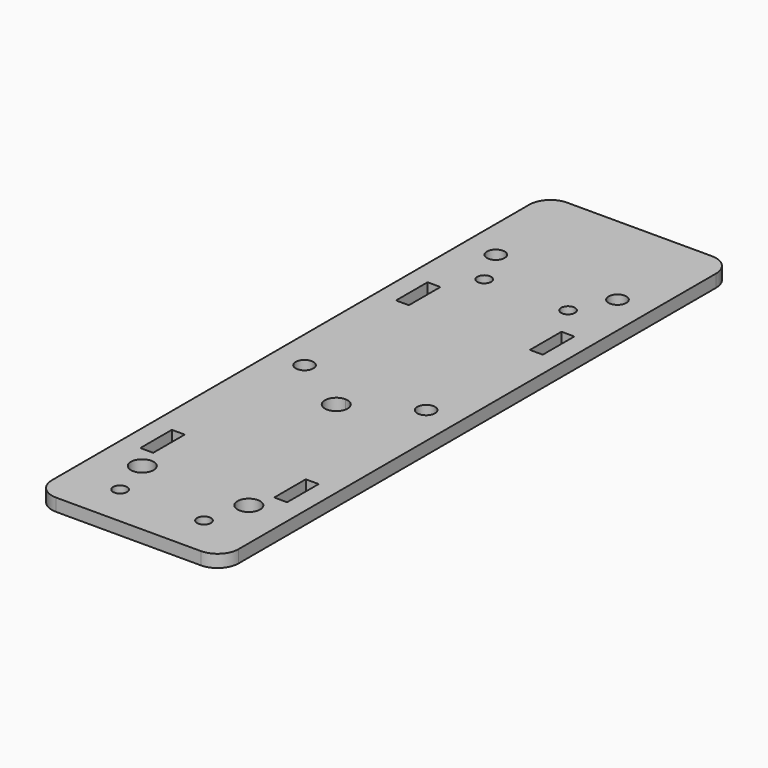
from build123d import *

# Parameters (mm, degrees)
F1_DEPTH = 2.999994
F2_R     = 1.65
F2_R_2   = 2.705
F2_R_3   = 2.11
F2_W     = 3.0734
F2_H     = 9.398
F3_DEPTH = 3.000994
F5_DEPTH = 3.000994


with BuildPart() as f1:
    # F0 (on Top) → F1 (new body)
    with BuildSketch(Plane.XY):
        with BuildLine():
            Line((-17.25041, -77.999971), (17.25041, -77.999971))
            ThreePointArc((17.25041, -77.999971), (20.785937, -76.535508), (22.2504, -72.999981))
            Line((22.2504, -72.999981), (22.2504, 72.999981))
            ThreePointArc((22.2504, 72.999981), (20.785937, 76.535508), (17.25041, 77.999971))
            Line((17.25041, 77.999971), (-17.25041, 77.999971))
            ThreePointArc((-17.25041, 77.999971), (-20.785937, 76.535508), (-22.2504, 72.999981))
            Line((-22.2504, 72.999981), (-22.2504, -72.999981))
            ThreePointArc((-22.2504, -72.999981), (-20.785937, -76.535508), (-17.25041, -77.999971))
        make_face()
    extrude(amount=-F1_DEPTH)

    # F2 (on face) → F3 (cut, through all)
    with BuildSketch(Plane.XY):
        with Locations((-9.99998, -67.999991)):
            Circle(F2_R)
        with Locations((-12.7004, -58.019971)):
            Circle(F2_R_2)
        with Locations((-14.5004, -7.399971)):
            Circle(F2_R_3)
        with Locations((-10.0004, 40.501189)):
            Circle(F2_R)
        with Locations((-14.5004, 49.600029)):
            Circle(F2_R_3)
        with BuildLine():
            ThreePointArc((0, -13.374971), (-2.7054, -16.079971), (0, -18.784971))
            Line((0, -18.784971), (0, -13.374971))
        make_face()
        with BuildLine():
            Line((0, -13.374971), (0, -18.784971))
            ThreePointArc((0, -18.784971), (1.912465, -17.992553), (2.7046, -16.079971))
            ThreePointArc((2.7046, -16.079971), (1.912465, -14.167389), (0, -13.374971))
        make_face()
        with Locations((9.99998, -67.999991)):
            Circle(F2_R)
        with Locations((12.7004, -58.019971)):
            Circle(F2_R_2)
        with Locations((14.5004, -7.399971)):
            Circle(F2_R_3)
        with Locations((10.0004, 40.501189)):
            Circle(F2_R)
        with Locations((14.5004, 49.600029)):
            Circle(F2_R_3)
        with Locations((-15.9637, -47.900971)):
            Rectangle(F2_W, F2_H)
        with Locations((-15.9637, 28.299029)):
            Rectangle(F2_W, F2_H)
        with Locations((15.9637, 28.299029)):
            Rectangle(F2_W, F2_H)
        with Locations((15.9637, -47.900971)):
            Rectangle(F2_W, F2_H)
    extrude(amount=-F3_DEPTH, mode=Mode.SUBTRACT)

    # F4 (on face) → F5 (cut, through all)
    with BuildSketch(Plane.XY):
        with BuildLine():
            ThreePointArc((-22.2504, 69.297931), (-20.785937, 72.833458), (-17.25041, 74.297921))
            Line((-17.25041, 74.297921), (17.25041, 74.297921))
            ThreePointArc((17.25041, 74.297921), (20.785937, 72.833458), (22.2504, 69.297931))
            Line((22.2504, 69.297931), (22.2504, 72.999981))
            ThreePointArc((22.2504, 72.999981), (20.785937, 76.535508), (17.25041, 77.999971))
            Line((17.25041, 77.999971), (-17.25041, 77.999971))
            ThreePointArc((-17.25041, 77.999971), (-20.785937, 76.535508), (-22.2504, 72.999981))
            Line((-22.2504, 72.999981), (-22.2504, 69.297931))
        make_face()
    extrude(amount=-F5_DEPTH, mode=Mode.SUBTRACT)


solid = f1.part
